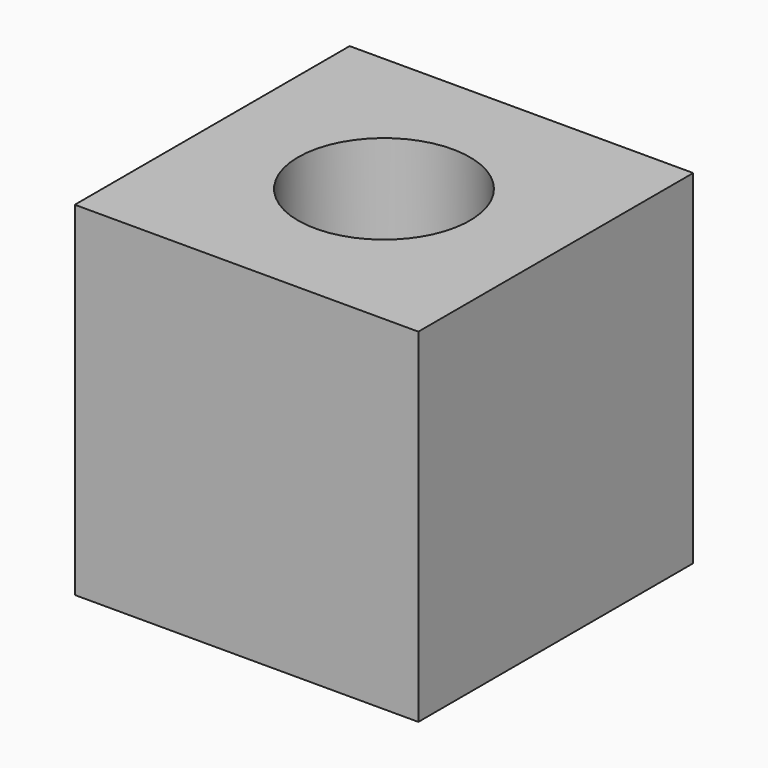
from build123d import *

# Parameters (mm, degrees)
F0_W     = 20
F0_H     = 20
F1_DEPTH = 20
F3_D     = 10
F3_DEPTH = 10
F3_TIP   = 3.0043030951


with BuildPart() as f1:
    # F0 (on Top) → F1 (new body)
    with BuildSketch(Plane.XY):
        with Locations((-3.3169160597, 1.9259513356)):
            Rectangle(F0_W, F0_H)
    extrude(amount=F1_DEPTH)

    # F3
    with Locations(Plane.XY.offset(20)):
        with Locations((-3.3169160597, 1.9259513356)):
            Hole(F3_D / 2, depth=F3_DEPTH)
            with Locations((0, 0, -(F3_DEPTH + F3_TIP / 2))):  # 118° drill point
                Cone(0, F3_D / 2, F3_TIP, mode=Mode.SUBTRACT)


solid = f1.part
